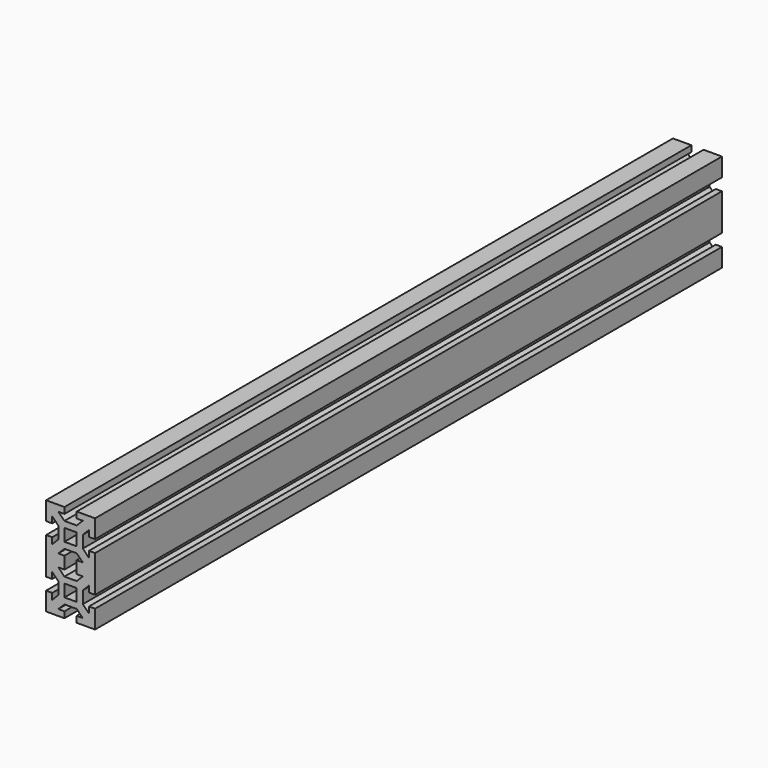
from build123d import *

# Parameters (mm, degrees)
F1_DEPTH = 640


with BuildPart() as f1:
    # F0 (on Front) → F1 (new body)
    with BuildSketch(Plane.XZ):
        Polygon((5, -20), (20, -20), (20, -5), (15, -5), (15, -10), (10, -5), (10, 5), (15, 10), (15, 5), (20, 5), (20, 20), (20, 35), (15, 35), (15, 30), (10, 35), (10, 45), (15, 50), (15, 45), (20, 45), (20, 60), (5, 60), (5, 55), (10, 55), (5, 50), (-5, 50), (-10, 55), (-5, 55), (-5, 60), (-20, 60), (-20, 45), (-15, 45), (-15, 50), (-10, 45), (-10, 35), (-15, 30), (-15, 35), (-20, 35), (-20, 20), (-20, 5), (-15, 5), (-15, 10), (-10, 5), (-10, -5), (-15, -10), (-15, -5), (-20, -5), (-20, -20), (-5, -20), (-5, -15), (-10, -15), (-5, -10), (5, -10), (10, -15), (5, -15), align=None)
        Polygon((-5, 0), (-5, 5), (0, 5), (5, 5), (5, 0), (5, -5), (0, -5), (-5, -5), align=None, mode=Mode.SUBTRACT)
        Polygon((-5, 15), (-5, 20), (-5, 25), (-10, 25), (-5, 30), (5, 30), (10, 25), (5, 25), (5, 20), (5, 15), (10, 15), (5, 10), (-5, 10), (-10, 15), align=None, mode=Mode.SUBTRACT)
        Polygon((-5, 40), (-5, 45), (0, 45), (5, 45), (5, 40), (5, 35), (0, 35), (-5, 35), align=None, mode=Mode.SUBTRACT)
    extrude(amount=F1_DEPTH)


solid = f1.part
